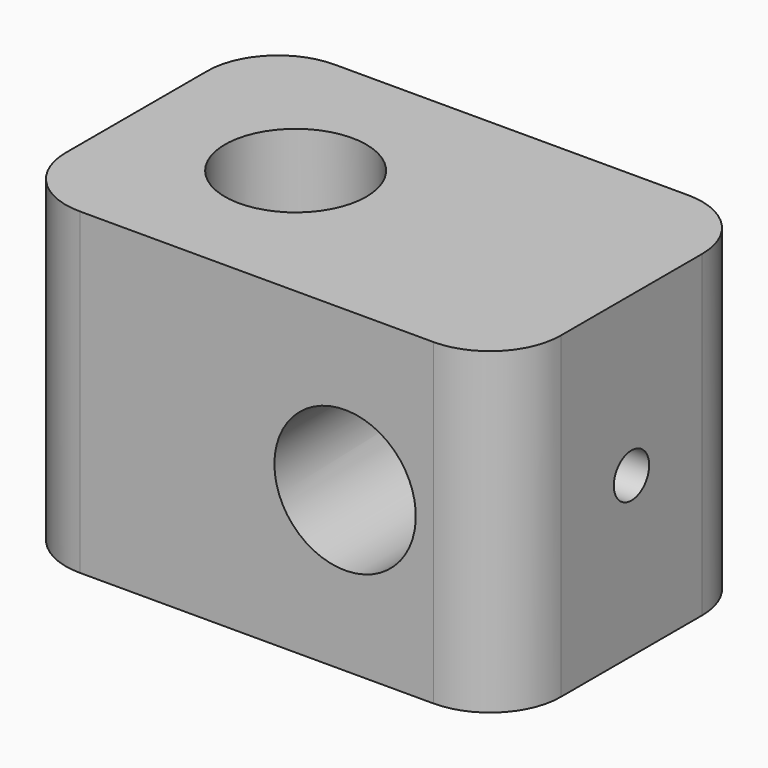
from build123d import *

# Parameters (mm, degrees)
F0_W     = 28
F0_H     = 18
F1_DEPTH = 18
F2_R     = 4
F4_DEPTH = 18.001
F3_R     = 4
F5_DEPTH = 18.001
F6_R     = 1.25
F7_DEPTH = 28.001
F8_R     = 4


with BuildPart() as f1:
    # F0 (on Top) → F1 (new body)
    with BuildSketch(Plane.XY):
        Rectangle(F0_W, F0_H)
    extrude(amount=F1_DEPTH)

    # F2 (on face) → F4 (cut, through all)
    with BuildSketch(Plane.XY.offset(18)):
        with Locations((-5, 0)):
            Circle(F2_R)
    extrude(amount=-F4_DEPTH, mode=Mode.SUBTRACT)

    # F3 (on face) → F5 (cut, through all)
    with BuildSketch(Plane(origin=(0, 9, 0), x_dir=(-1, 0, 0), z_dir=(0, 1, 0))):
        with Locations((-5, 9)):
            Circle(F3_R)
    extrude(amount=-F5_DEPTH, mode=Mode.SUBTRACT)

    # F6 (on face) → F7 (cut, through all)
    with BuildSketch(Plane(origin=(-14, 0, 0), x_dir=(0, -1, 0), z_dir=(-1, 0, 0))):
        with Locations((0, 9)):
            Circle(F6_R)
    extrude(amount=-F7_DEPTH, mode=Mode.SUBTRACT)

    # F8
    f8_edges = [f1.edges().sort_by_distance(p)[0] for p in [
        (-14, -9, 9),
        (-14, 9, 9),
        (14, -9, 9),
        (14, 9, 9),
    ]]
    fillet(f8_edges, radius=F8_R)


solid = f1.part
